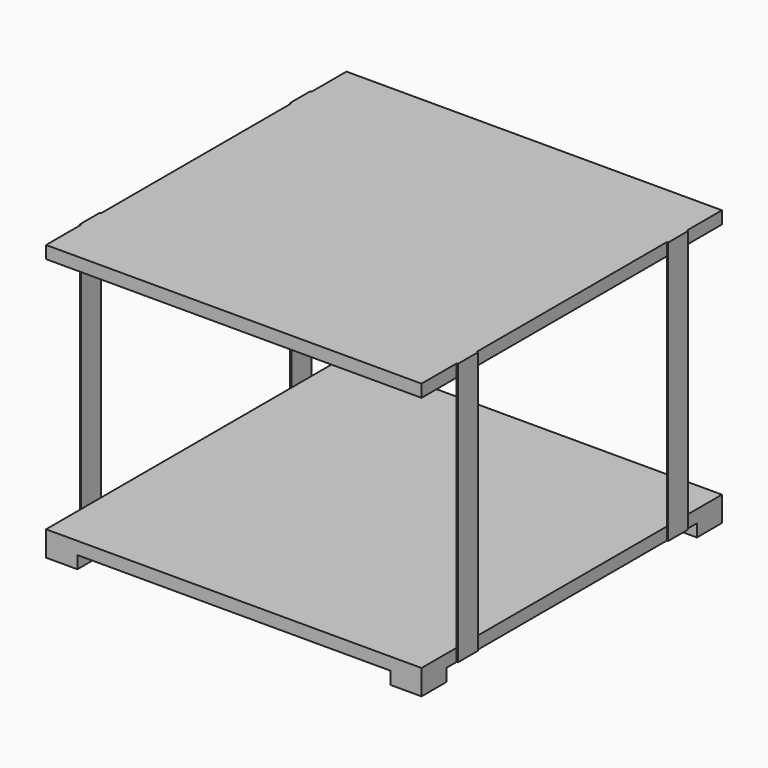
from build123d import *

# Parameters (mm, degrees)
F0_W      = 300
F0_H      = 10
F1_DEPTH  = 300
F2_W      = 25
F2_H      = 25
F3_DEPTH  = 10
F4_W      = 20
F4_H      = 10
F5_DEPTH  = 1
F6_W      = 20
F6_H      = 10
F7_DEPTH  = 1
F8_W      = 1
F8_H      = 20
F9_DEPTH  = 200
F10_W     = 300
F10_H     = 10
F11_DEPTH = 300


with BuildPart() as f1:
    # F0 (on Front) → F1 (new body)
    with BuildSketch(Plane.XZ):
        with Locations((102.931539, 34.842865)):
            Rectangle(F0_W, F0_H)
    extrude(amount=F1_DEPTH)

    # F2 (on face) → F3 (join)
    with BuildSketch(Plane(origin=(0, 0, 29.842865), x_dir=(1, 0, 0), z_dir=(0, 0, -1))):
        with Locations((240.431539, 12.5)):
            Rectangle(F2_W, F2_H)
        with Locations((-34.568461, 12.5)):
            Rectangle(F2_W, F2_H)
        with Locations((240.431539, 287.5)):
            Rectangle(F2_W, F2_H)
        with Locations((-34.568461, 287.5)):
            Rectangle(F2_W, F2_H)
    extrude(amount=F3_DEPTH)

    # F4 (on face) → F5 (join)
    with BuildSketch(Plane.YZ.offset(252.931539)):
        with Locations((-45, 34.842865)):
            Rectangle(F4_W, F4_H)
        with Locations((-255, 34.842865)):
            Rectangle(F4_W, F4_H)
    extrude(amount=F5_DEPTH)

    # F6 (on face) → F7 (join)
    with BuildSketch(Plane(origin=(-47.068461, 0, 0), x_dir=(0, -1, 0), z_dir=(-1, 0, 0))):
        with Locations((45, 34.842865)):
            Rectangle(F6_W, F6_H)
        with Locations((255, 34.842865)):
            Rectangle(F6_W, F6_H)
    extrude(amount=F7_DEPTH)

    # F8 (on face) → F9 (join)
    with BuildSketch(Plane.XY.offset(39.842865)):
        with Locations((253.431539, -45)):
            Rectangle(F8_W, F8_H)
        with Locations((253.431539, -255)):
            Rectangle(F8_W, F8_H)
        with Locations((-47.568461, -255)):
            Rectangle(F8_W, F8_H)
        with Locations((-47.568461, -45)):
            Rectangle(F8_W, F8_H)
    extrude(amount=F9_DEPTH)

    # F10 (on face) → F11 (join)
    with BuildSketch(Plane(origin=(252.931539, 0, 0), x_dir=(0, -1, 0), z_dir=(-1, 0, 0))):
        with Locations((150, 234.842865)):
            Rectangle(F10_W, F10_H)
    extrude(amount=F11_DEPTH)


solid = f1.part
